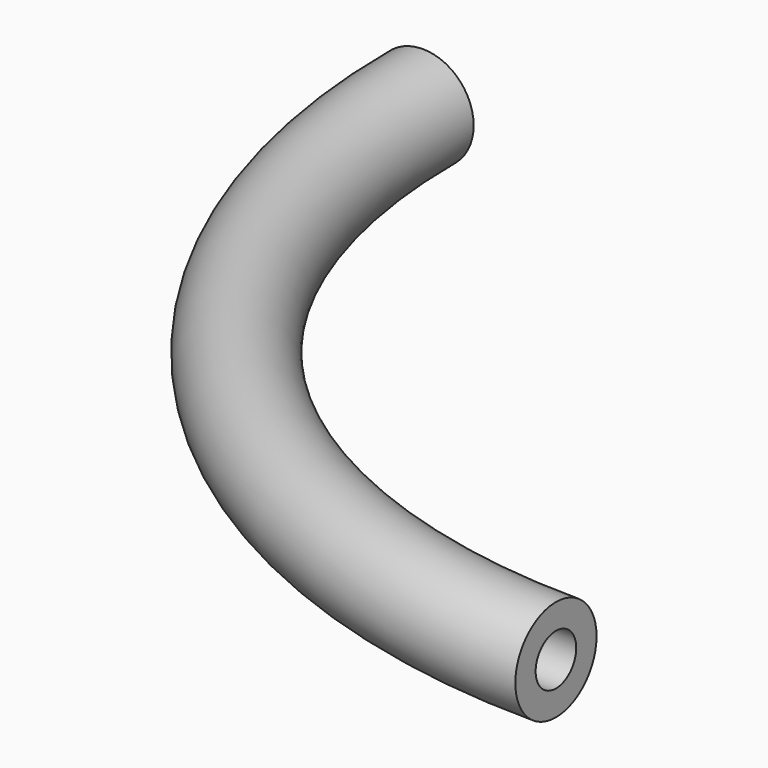
from build123d import *

# Parameters (mm, degrees)
F0_R     = 2
F0_R_2   = 1
F2_ANGLE = 90


with BuildPart() as f2:
    # F0 (on Front) → F2 (revolve)
    with BuildSketch(Plane.XZ):
        with Locations((-26.2084007263, 0)):
            Circle(F0_R)
        with Locations((-26.2084007263, 0)):
            Circle(F0_R_2, mode=Mode.SUBTRACT)
    revolve(axis=Axis((0, 0, 0), (0, 0, 1)), revolution_arc=F2_ANGLE)


solid = f2.part
